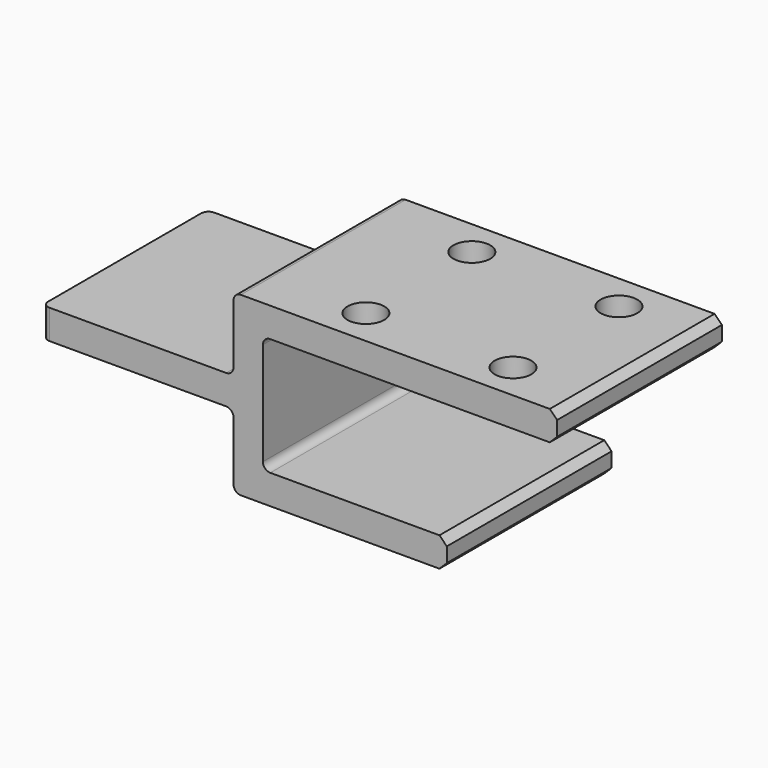
from build123d import *

# Parameters (mm, degrees)
SKETCH_W        = 30
SKETCH_H        = 28
PAD_DEPTH       = 4
SKETCH001_W     = 4
SKETCH001_H     = 28
PAD001_DEPTH    = 6
PAD001_FACE5_W  = 28
PAD001_FACE5_H  = 4
PAD002_DEPTH    = 4
SKETCH002_W     = 28
SKETCH002_H     = 4
PAD003_DEPTH    = 40
SKETCH003_R     = 2.5
POCKET_DEPTH    = 5
SKETCH004_R     = 1.65
POCKET001_DEPTH = 5
SKETCH005_W     = 4
SKETCH005_H     = 28
PAD004_DEPTH    = 10
SKETCH006_W     = 28
SKETCH006_H     = 4
PAD005_DEPTH    = 25
FILLET_R        = 1
CHAMFER_SIZE    = 1


with BuildPart() as part:
    # Sketch → Pad (new body)
    with BuildSketch(Plane.XY):
        with Locations((0, -14)):
            Rectangle(SKETCH_W, SKETCH_H)
    extrude(amount=PAD_DEPTH)

    # Sketch001 (on Face6 of Pad) → Pad001 (join)
    with BuildSketch(Plane.XY.offset(4)):
        with Locations((13, -14)):
            Rectangle(SKETCH001_W, SKETCH001_H)
    extrude(amount=PAD001_DEPTH)

    # Pad001 Face5 → Pad002 (add)
    with BuildSketch(Plane(origin=(13, -14, 10), x_dir=(0, 1, 0), z_dir=(0, 0, 1))):
        Rectangle(PAD001_FACE5_W, PAD001_FACE5_H)
    extrude(amount=PAD002_DEPTH)

    # Sketch002 (on Face8 of Pad002) → Pad003 (join)
    with BuildSketch(Plane.YZ.offset(15)):
        with Locations((-14, 12)):
            Rectangle(SKETCH002_W, SKETCH002_H)
    extrude(amount=PAD003_DEPTH)

    # Sketch003 (on Face10 of Pad003) → Pocket (cut)
    with BuildSketch(Plane.XY.offset(14)):
        with Locations((25, -5)):
            Circle(SKETCH003_R)
        with Locations((25, -23)):
            Circle(SKETCH003_R)
        with Locations((45, -5)):
            Circle(SKETCH003_R)
        with Locations((45, -23)):
            Circle(SKETCH003_R)
    extrude(amount=-POCKET_DEPTH, mode=Mode.SUBTRACT)

    # Sketch004 (on Face5 of Pocket) → Pocket001 (cut)
    with BuildSketch(Plane.XY.offset(4)):
        with Locations((7, -8)):
            Circle(SKETCH004_R)
        with Locations((7, -19)):
            Circle(SKETCH004_R)
    extrude(amount=-POCKET001_DEPTH, mode=Mode.SUBTRACT)

    # Sketch005 (on Face4 of Pocket001) → Pad004 (join)
    with BuildSketch(Plane(origin=(0, 0, 0), x_dir=(1, 0, 0), z_dir=(0, 0, -1))):
        with Locations((13, 14)):
            Rectangle(SKETCH005_W, SKETCH005_H)
    extrude(amount=PAD004_DEPTH)

    # Sketch006 (on Face18 of Pad004) → Pad005 (join)
    with BuildSketch(Plane.YZ.offset(15)):
        with Locations((-14, -8)):
            Rectangle(SKETCH006_W, SKETCH006_H)
    extrude(amount=PAD005_DEPTH)

    # Fillet
    fillet_edges = [part.edges().sort_by_distance(p)[0] for p in [
        (15, -14, 10),
        (15, -14, -6),
        (11, -14, 4),
        (11, -14, 0),
        (-15, 0, 2),
        (-15, -28, 2),
        (11, -14, 14),
        (11, -14, -10),
    ]]
    fillet(fillet_edges, radius=FILLET_R)

    # Chamfer
    chamfer_edges = [part.edges().sort_by_distance(p)[0] for p in [
        (40, -14, -6),
        (55, -14, 10),
        (40, -14, -10),
        (55, -14, 14),
    ]]
    chamfer(chamfer_edges, length=CHAMFER_SIZE)


solid = part.part
